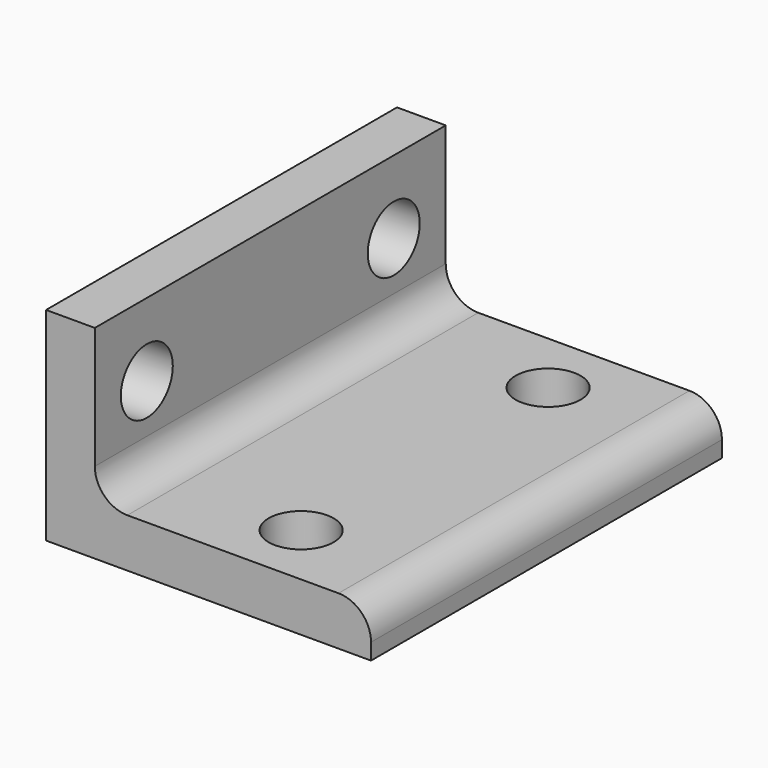
from build123d import *

# Parameters (mm, degrees)
F1_DEPTH = 54
F2_R     = 4
F4_D     = 8
F4_DEPTH = 25
F6_D     = 8
F6_DEPTH = 25


with BuildPart() as f1:
    # F0 (on Front) → F1 (new body)
    with BuildSketch(Plane.XZ):
        Polygon((0, 25), (0, 0), (40, 0), (40, 6), (6, 6), (6, 25), align=None)
    extrude(amount=F1_DEPTH)

    # F2
    f2_edges = [f1.edges().sort_by_distance(p)[0] for p in [
        (40, -27, 6),
        (6, -27, 6),
    ]]
    fillet(f2_edges, radius=F2_R)

    # F4
    with Locations(Plane(origin=(0, 0, 0), x_dir=(0, -1, 0), z_dir=(-1, 0, 0))):
        with Locations((8, 16), (46, 16)):
            Hole(F4_D / 2, depth=F4_DEPTH)

    # F6
    with Locations(Plane(origin=(0, 0, 0), x_dir=(1, 0, 0), z_dir=(0, 0, -1))):
        with Locations((25, 8), (25, 46), (25, 46)):
            Hole(F6_D / 2, depth=F6_DEPTH)


solid = f1.part
